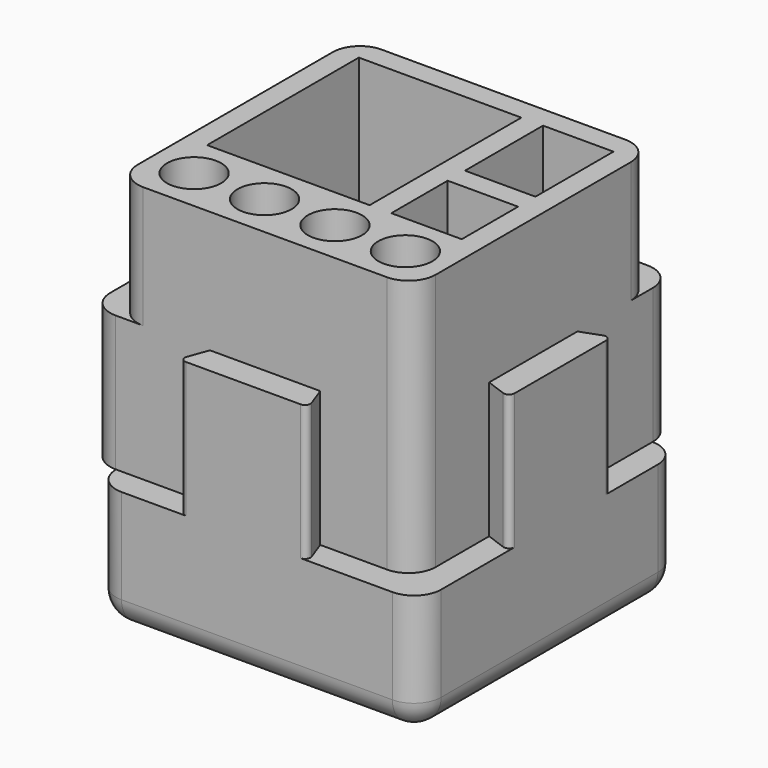
from build123d import *

# Parameters (mm, degrees)
F1_DEPTH = 35
F0_W     = 5.1
F0_H     = 5.1
F2_DEPTH = 12.5
F4_DEPTH = 22.5
F5_R     = 5
F6_R     = 1
F7_W     = 30
F7_H     = 35
F7_R     = 5
F7_W_2   = 13
F7_H_2   = 18
F7_H_3   = 13
F8_DEPTH = 65
F9_DEPTH = 25


with BuildPart() as f1:
    # F0 (on Top) → F1 (new body, symmetric)
    with BuildSketch(Plane.XY):
        Polygon((-11.9, 27.5), (-27.5, 27.5), (-27.5, 12.3), (-27.5, -11.9), (-27.5, -27.5), (-10.1801488287, -27.5), (10.1801488287, -27.5), (27.5, -27.5), (27.5, -10.1801488287), (27.5, 10.1801488287), (27.5, 27.5), (12.3, 27.5), align=None)
    extrude(amount=F1_DEPTH, both=True)

    # F0 (on Top) → F2 (join, symmetric)
    with BuildSketch(Plane.XY):
        Polygon((-27.5, 12.3), (-27.5, 27.5), (-32.6, 27.5), (-32.6, 10.4437518052), align=None)
        Polygon((-27.5, -27.5), (-27.5, -11.9), (-32.6, -10.0437518052), (-32.6, -27.5), align=None)
        Polygon((-27.5, 32.6), (-27.5, 27.5), (-11.9, 27.5), (-10.0437518052, 32.6), align=None)
        Polygon((10.4437518052, 32.6), (12.3, 27.5), (27.5, 27.5), (27.5, 32.6), align=None)
        Polygon((10.1801488287, -27.5), (-10.1801488287, -27.5), (-12, -32.5), (12, -32.5), align=None)
        Polygon((32.5, 12), (27.5, 10.1801488287), (27.5, -10.1801488287), (32.5, -12), align=None)
        with Locations((-30.05, 30.05)):
            Rectangle(F0_W, F0_H)
    extrude(amount=F2_DEPTH, both=True)

    # F3 (on face) → F4 (join, through all)
    with BuildSketch(Plane(origin=(0, 0, -35), x_dir=(1, 0, 0), z_dir=(0, 0, -1))):
        Polygon((-27.5, 32.5), (-27.5, 27.5), (27.5, 27.5), (27.5, -27.5), (32.5, -27.5), (32.5, 32.5), align=None)
    extrude(amount=-F4_DEPTH)

    # F5
    f5_edges = [f1.edges().sort_by_distance(p)[0] for p in [
        (-32.6, 32.6, 0),
        (-27.5, 27.5, 23.75),
        (-27.5, 27.5, -23.75),
        (-32.6, -27.5, 0),
        (-27.5, -32.5, -23.75),
        (32.5, -32.5, -23.75),
        (27.5, -27.5, 11.25),
        (32.5, 27.5, -23.75),
        (27.5, 32.6, 0),
        (27.5, 27.5, 23.75),
        (32.5, -2.5, -35),
        (2.5, -32.5, -35),
        (-27.5, -2.5, -35),
        (2.5, 27.5, -35),
        (-27.5, -27.5, 23.75),
    ]]
    fillet(f5_edges, radius=F5_R)

    # F6
    f6_edges = [f1.edges().sort_by_distance(p)[0] for p in [
        (12, -32.5, 0),
        (-12, -32.5, 0),
        (32.5, -12, 0),
        (32.5, 12, 0),
        (10.443752, 32.6, 0),
        (-10.043752, 32.6, 0),
        (-32.6, 10.443752, 0),
        (-32.6, -10.043752, 0),
    ]]
    fillet(f6_edges, radius=F6_R)

    # F7 (on face) → F8 (cut)
    with BuildSketch(Plane.XY.offset(35)):
        with Locations((-8.5, 6)):
            Rectangle(F7_W, F7_H)
        with Locations((-6.5, -19.5)):
            Circle(F7_R)
        with Locations((6.5, -19.5)):
            Circle(F7_R)
        with Locations((17, 14.5)):
            Rectangle(F7_W_2, F7_H_2)
        with Locations((17, -5)):
            Rectangle(F7_W_2, F7_H_3)
        with Locations((19.5, -19.5)):
            Circle(F7_R)
    extrude(amount=-F8_DEPTH, mode=Mode.SUBTRACT)

    # F7 (on face) → F9 (cut)
    with BuildSketch(Plane.XY.offset(35)):
        with Locations((-19.5, -19.5)):
            Circle(F7_R)
    extrude(amount=-F9_DEPTH, mode=Mode.SUBTRACT)


solid = f1.part
